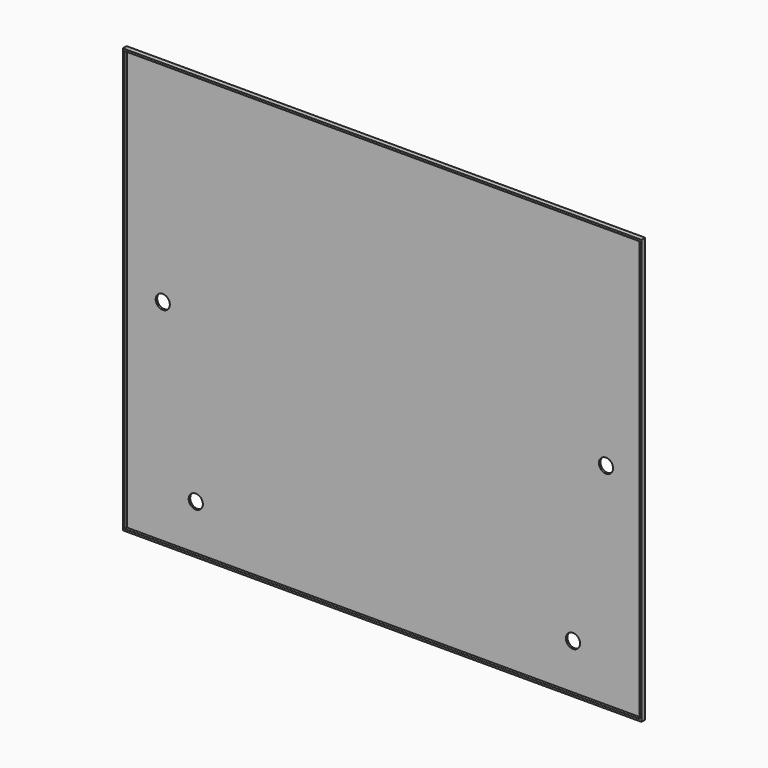
from build123d import *

# Parameters (mm, degrees)
F0_W     = 550
F0_H     = 450
F1_DEPTH = 5
F2_T     = -2
F4_D     = 15


with BuildPart() as f1:
    # F0 (on Front) → F1 (new body)
    with BuildSketch(Plane.XZ):
        Rectangle(F0_W, F0_H)
    extrude(amount=F1_DEPTH)

    # F2
    f2_openings = [f1.faces().sort_by_distance(p)[0] for p in [
        (0, -5, 0),
    ]]
    offset(amount=F2_T, openings=f2_openings)

    # F4 (through all)
    with Locations(Plane(origin=(0, 0, 0), x_dir=(-1, 0, 0), z_dir=(0, 1, 0))):
        with Locations((235, 0), (-235, 0), (-200, -175), (200, -175)):
            Hole(F4_D / 2)


solid = f1.part
